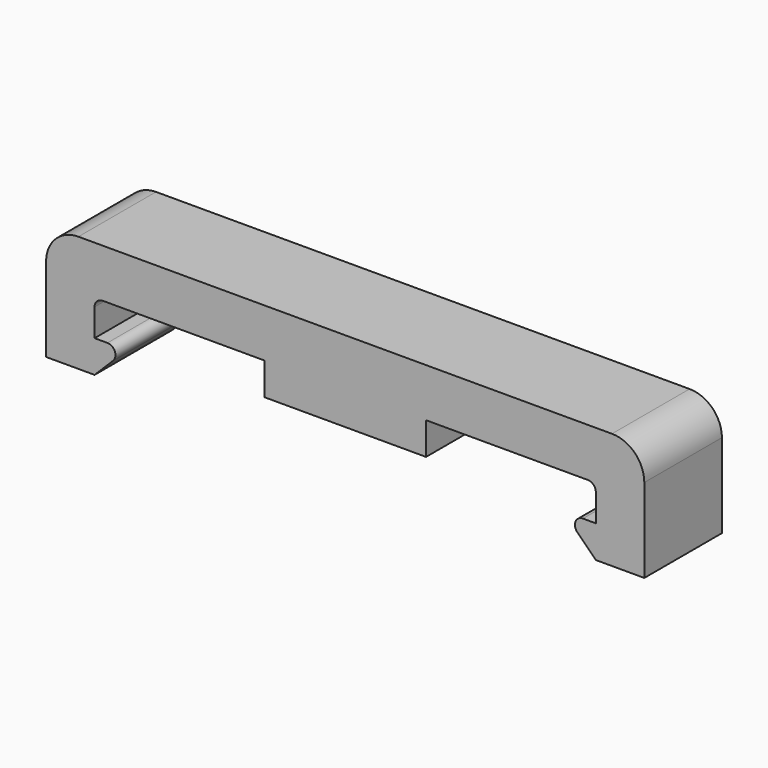
from build123d import *

# Parameters (mm, degrees)
F0_W     = 10
F0_H     = 2
F1_DEPTH = 3
F2_R     = 2
F3_R     = 0.5
F4_R     = 0.5


with BuildPart() as f1:
    # F0 (on Front) → F1 (new body, symmetric)
    with BuildSketch(Plane.XZ):
        Polygon((18.5, 0), (-18.5, 0), (-18.5, -7.2), (-15.5, -7.2), (-13.5, -5.2), (-15.5, -5.2), (-15.5, -3), (-5, -3), (5, -3), (15.5, -3), (15.5, -5.2), (13.5, -5.2), (15.5, -7.2), (18.5, -7.2), align=None)
        with Locations((0, -4)):
            Rectangle(F0_W, F0_H)
    extrude(amount=F1_DEPTH, both=True)

    # F2
    f2_edges = [f1.edges().sort_by_distance(p)[0] for p in [
        (18.5, 0, 0),
        (-18.5, 0, 0),
    ]]
    fillet(f2_edges, radius=F2_R)

    # F3
    f3_edges = [f1.edges().sort_by_distance(p)[0] for p in [
        (15.5, 0, -3),
        (-15.5, 0, -3),
    ]]
    fillet(f3_edges, radius=F3_R)

    # F4
    f4_edges = [f1.edges().sort_by_distance(p)[0] for p in [
        (13.5, 0, -5.2),
        (-13.5, 0, -5.2),
    ]]
    fillet(f4_edges, radius=F4_R)


solid = f1.part
